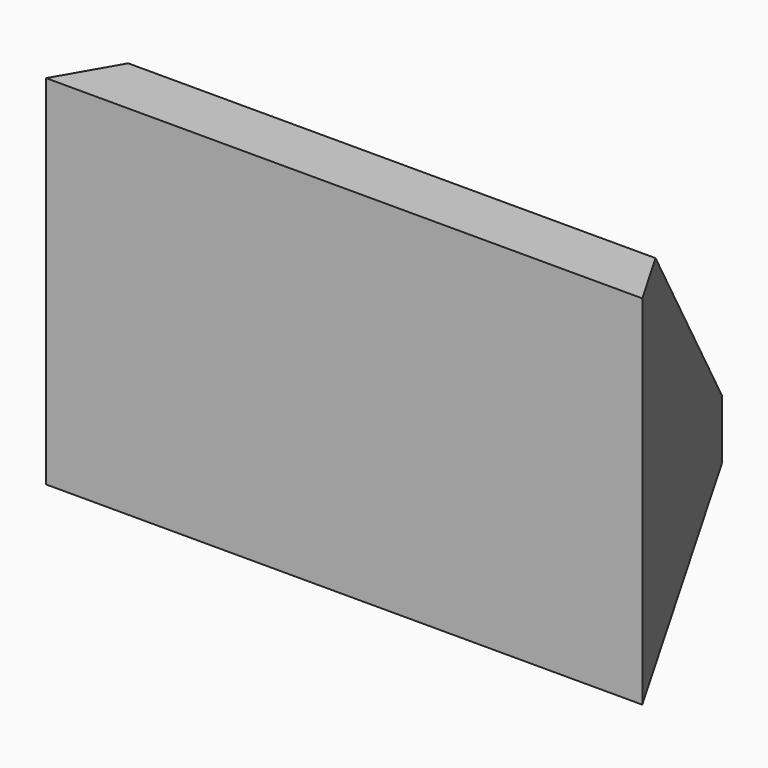
from build123d import *

# Parameters (mm, degrees)
F1_DEPTH      = 5
F4_DEPTH      = 25
F5_DEPTH      = 23.1132486541
F5_DEPTH_BACK = 23.1132486541


with BuildPart() as f1:
    # F0 (on Top) → F1 (new body)
    with BuildSketch(Plane.XY):
        Polygon((7.6794919243, 21.294143835), (-7.6794919243, 21.294143835), (-25, -8.705856165), (25, -8.705856165), align=None)
    extrude(amount=F1_DEPTH)

    # F2 (on face) → F4 (join, through all)
    with BuildSketch(Plane.XY.offset(5)):
        Polygon((-1.5, -3.705856165), (-1.5, 21.294143835), (-7.6794919243, 21.294143835), (-25, -8.705856165), (25, -8.705856165), (7.6794919243, 21.294143835), (1.5, 21.294143835), (1.5, -3.705856165), align=None)
    extrude(amount=F4_DEPTH)

    # F3 (on Right) → F5 (cut, two sides)
    with BuildSketch(Plane.YZ) as f5_sk:
        Polygon((-3.705856165, 30), (21.294143835, 5), (21.294143835, 30), align=None)
    extrude(amount=-F5_DEPTH, mode=Mode.SUBTRACT)
    extrude(f5_sk.sketch, amount=F5_DEPTH_BACK, mode=Mode.SUBTRACT)


solid = f1.part
